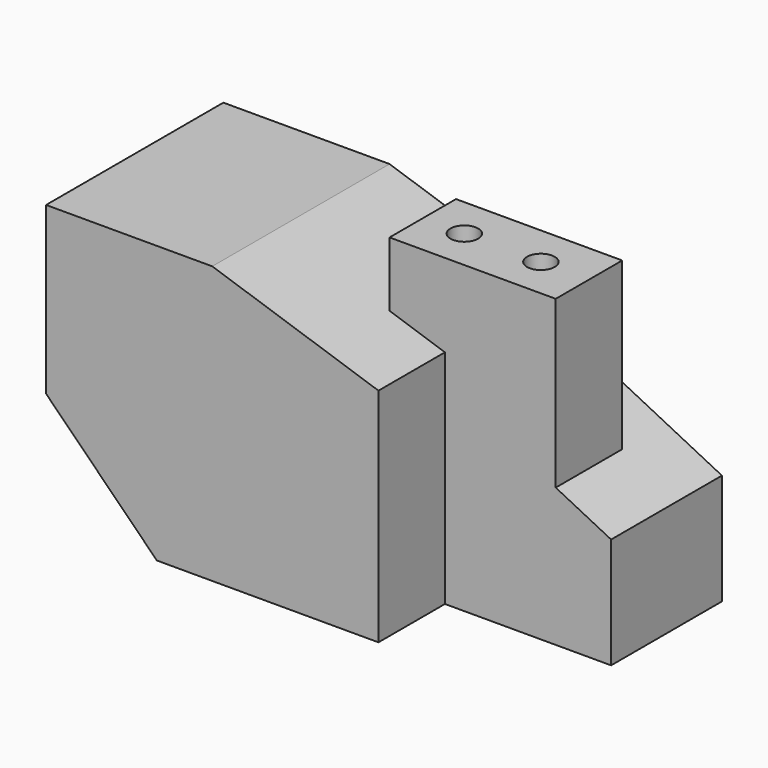
from build123d import *

# Parameters (mm, degrees)
F0_W      = 76.2
F0_H      = 63.5
F1_DEPTH  = 50.8
F3_DEPTH  = 50.8
F4_W      = 19.05
F4_H      = 44.45
F5_DEPTH  = 38.1
F6_W      = 19.05
F6_H      = 19.05
F7_DEPTH  = 12.7
F10_DEPTH = 12.7
F11_R     = 3.175
F12_DEPTH = 69.851
F13_DEPTH = 31.75


with BuildPart() as f1:
    # F0 (on Front) → F1 (new body)
    with BuildSketch(Plane.XZ):
        with Locations((-7.4970987678, 21.3185883239)):
            Rectangle(F0_W, F0_H)
    extrude(amount=-F1_DEPTH)

    # F2 (on face) → F3 (cut)
    with BuildSketch(Plane.XZ):
        Polygon((-45.5970987678, 14.9685883239), (-45.5970987678, -10.4314116761), (-20.1970987678, -10.4314116761), align=None)
        Polygon((30.6029012322, 40.3685883239), (30.6029012322, 53.0685883239), (-7.4970987678, 53.0685883239), align=None)
    extrude(amount=-F3_DEPTH, mode=Mode.SUBTRACT)

    # F4 (on face) → F5 (join)
    with BuildSketch(Plane.YZ.offset(30.6029012322)):
        Polygon((19.05, 14.9685883239), (19.05, -10.4314116761), (50.8, -10.4314116761), (50.8, 14.9685883239), (38.1, 14.9685883239), align=None)
        with Locations((28.575, 37.1935883239)):
            Rectangle(F4_W, F4_H)
    extrude(amount=F5_DEPTH)

    # F6 (on face) → F7 (join)
    with BuildSketch(Plane(origin=(30.6029012322, 0, 0), x_dir=(0, -1, 0), z_dir=(-1, 0, 0))):
        with Locations((-28.575, 49.8935883239)):
            Rectangle(F6_W, F6_H)
    extrude(amount=F7_DEPTH)

    # F9 (on face) → F10 (join)
    with BuildSketch(Plane(origin=(0, 38.1, 0), x_dir=(-1, 0, 0), z_dir=(0, 1, 0))):
        Polygon((-30.6029012322, 34.0185883239), (-68.7029012322, 14.9685883239), (-30.6029012322, 14.9685883239), align=None)
    extrude(amount=F10_DEPTH)

    # F11 (on face) → F12 (cut, through all)
    with BuildSketch(Plane.XY.offset(59.4185883239)):
        with Locations((27.4279012322, 28.575)):
            Circle(F11_R)
        with Locations((44.9788695751, 28.575)):
            Circle(F11_R)
    extrude(amount=-F12_DEPTH, mode=Mode.SUBTRACT)

    # F8 (on face) → F13 (cut)
    with BuildSketch(Plane.XZ.offset(-19.05)):
        Polygon((56.0029012322, 59.4185883239), (56.0029012322, 21.3185883239), (68.7029012322, 14.9685883239), (68.7029012322, 59.4185883239), align=None)
    extrude(amount=-F13_DEPTH, mode=Mode.SUBTRACT)


solid = f1.part
